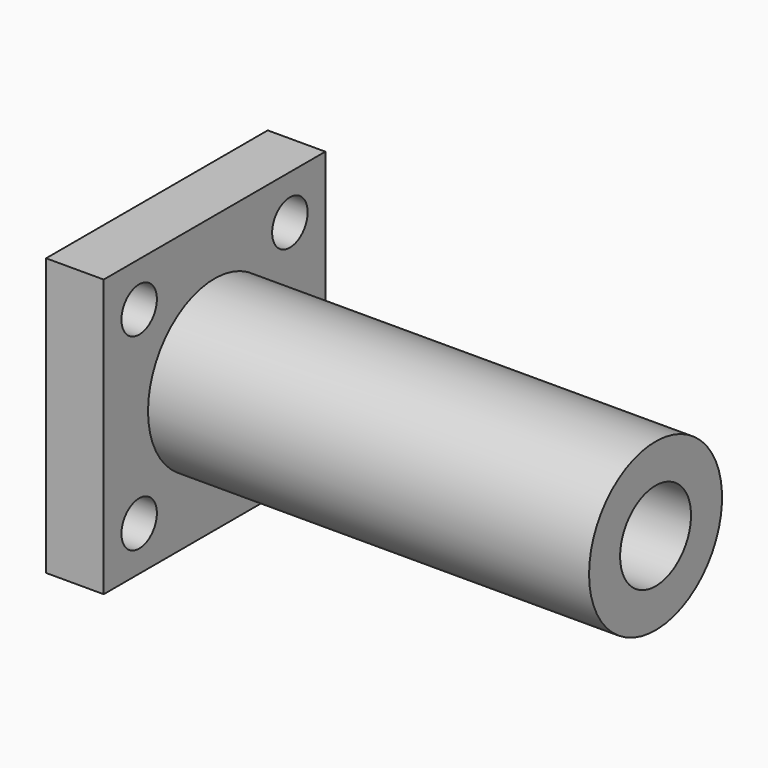
from build123d import *

# Parameters (mm, degrees)
CYLINDER026_R          = 2
CYLINDER026_DEPTH      = 10
CYLINDER027_R          = 2
CYLINDER027_DEPTH      = 10
CYLINDER038_R          = 2
CYLINDER038_DEPTH      = 10
CYLINDER037_R          = 2
CYLINDER037_DEPTH      = 10
CYLINDER036_R          = 4
CYLINDER036_DEPTH      = 60
CYLINDER039_R          = 7.5
CYLINDER039_DEPTH      = 40
BOX007_W               = 25
BOX007_H               = 25
BOX007_DEPTH           = 5.2
CUT033_ROLL_ANGLE      = -90
CUT033_PLACEMENT_ANGLE = -90


with BuildPart() as cylinder026:
    # Cylinder026 → Cylinder026 (new body)
    with BuildSketch(Plane(origin=(21, 21, -2), x_dir=(1, 0, 0), z_dir=(0, 0, 1))):
        Circle(CYLINDER026_R)
    extrude(amount=CYLINDER026_DEPTH)


with BuildPart() as cylinder027:
    # Cylinder027 → Cylinder027 (new body)
    with BuildSketch(Plane(origin=(21, 4, -2), x_dir=(1, 0, 0), z_dir=(0, 0, 1))):
        Circle(CYLINDER027_R)
    extrude(amount=CYLINDER027_DEPTH)


with BuildPart() as cylinder038:
    # Cylinder038 → Cylinder038 (new body)
    with BuildSketch(Plane(origin=(4, 21, -2), x_dir=(1, 0, 0), z_dir=(0, 0, 1))):
        Circle(CYLINDER038_R)
    extrude(amount=CYLINDER038_DEPTH)


with BuildPart() as cylinder037:
    # Cylinder037 → Cylinder037 (new body)
    with BuildSketch(Plane(origin=(4, 4, -2), x_dir=(1, 0, 0), z_dir=(0, 0, 1))):
        Circle(CYLINDER037_R)
    extrude(amount=CYLINDER037_DEPTH)


with BuildPart() as cylinder036:
    # Cylinder036 → Cylinder036 (new body)
    with BuildSketch(Plane(origin=(12.5, 12.5, -7), x_dir=(1, 0, 0), z_dir=(0, 0, 1))):
        Circle(CYLINDER036_R)
    extrude(amount=CYLINDER036_DEPTH)


with BuildPart() as cylinder039:
    # Cylinder039 → Cylinder039 (new body)
    with BuildSketch(Plane(origin=(12.5, 12.5, 5), x_dir=(1, 0, 0), z_dir=(0, 0, 1))):
        Circle(CYLINDER039_R)
    extrude(amount=CYLINDER039_DEPTH)


with BuildPart() as cut033:
    # Box007 → Box007 (new body)
    with BuildSketch(Plane.XY):
        with Locations((12.5, 12.5)):
            Rectangle(BOX007_W, BOX007_H)
    extrude(amount=BOX007_DEPTH)

    # Fusion008: union Cylinder039
    add(cylinder039.part)

    # Cut031: cut Cylinder036
    add(cylinder036.part, mode=Mode.SUBTRACT)

    # Cut032: cut Cylinder037
    add(cylinder037.part, mode=Mode.SUBTRACT)

    # Cut029: cut Cylinder038
    add(cylinder038.part, mode=Mode.SUBTRACT)

    # Cut030: cut Cylinder027
    add(cylinder027.part, mode=Mode.SUBTRACT)

    # Cut033: cut Cylinder026
    add(cylinder026.part, mode=Mode.SUBTRACT)


with BuildPart() as cut033_1:
    # Cut033 roll: moved
    add(cut033.part.rotate(Axis((0, 0, 0), (1, 0, 0)), CUT033_ROLL_ANGLE))


with BuildPart() as cut033_2:
    # Cut033 placement: moved
    add(cut033_1.part.moved(Location((94, 37.5, 44.5))).rotate(Axis((94, 37.5, 44.5), (0, 0, 1)), CUT033_PLACEMENT_ANGLE))


solid = cut033_2.part
